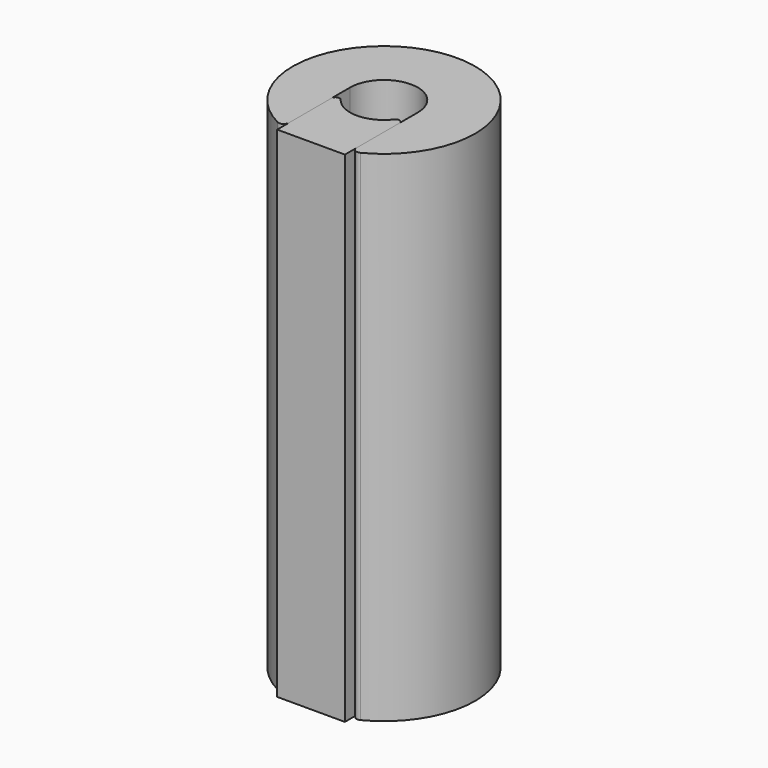
from build123d import *

# Parameters (mm, degrees)
F1_DEPTH = 38.35
F2_DEPTH = 38.35
F3_R     = 0.3
F4_R     = 0.4


with BuildPart() as f1:
    # F0 (on Top) → F1 (new body)
    with BuildSketch(Plane.XY):
        with BuildLine():
            ThreePointArc((-2.6, 0), (0, 2.6), (2.6, 0))
            Line((2.6, 0), (2.6, -6.4992307237))
            ThreePointArc((2.6, -6.4992307237), (0, 7), (-2.6, -6.4992307237))
            Line((-2.6, -6.4992307237), (-2.6, 0))
        make_face()
    extrude(amount=F1_DEPTH)

    # F4
    f4_edges = [f1.edges().sort_by_distance(p)[0] for p in [
        (-2.6, -6.499231, 19.175),
        (2.6, -6.499231, 19.175),
    ]]
    fillet(f4_edges, radius=F4_R)


with BuildPart() as f2:
    # F0 (on Top) → F2 (new body)
    with BuildSketch(Plane.XY):
        with BuildLine():
            Line((2.6, -6.4992307237), (2.6, 0))
            ThreePointArc((2.6, 0), (0, -2.6), (-2.6, 0))
            Line((-2.6, 0), (-2.6, -6.4992307237))
            Line((-2.6, -6.4992307237), (-2.6, -7))
            Line((-2.6, -7), (0, -7))
            Line((0, -7), (2.6, -7))
            Line((2.6, -7), (2.6, -6.4992307237))
        make_face()
    extrude(amount=F2_DEPTH)

    # F3
    f3_edges = [f2.edges().sort_by_distance(p)[0] for p in [
        (-2.6, 0, 19.175),
        (2.6, 0, 19.175),
    ]]
    fillet(f3_edges, radius=F3_R)


solid = Compound([f1.part, f2.part])
